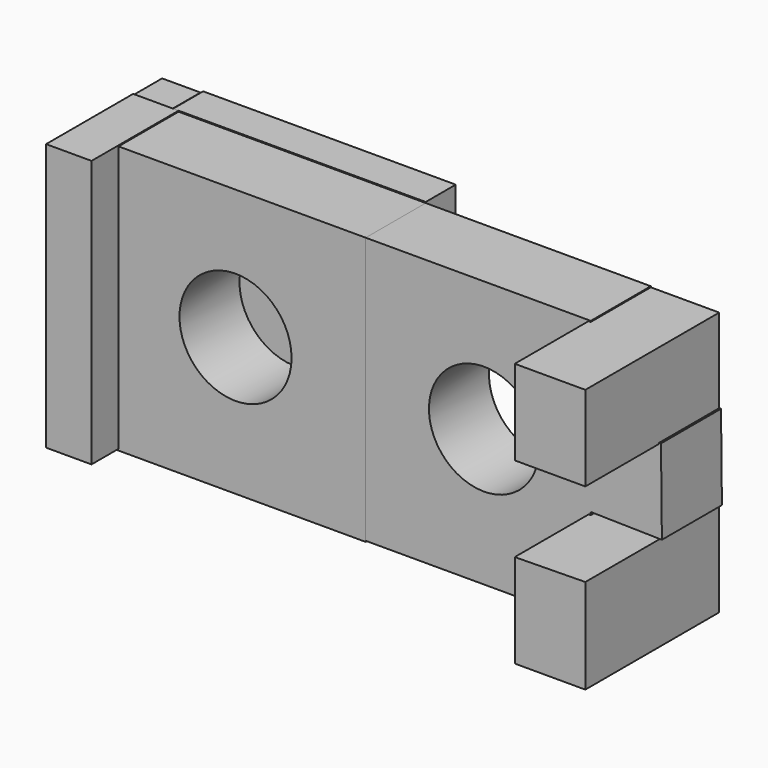
from build123d import *

# Parameters (mm, degrees)
F0_W      = 85.491411
F0_H      = 90.972517
F1_DEPTH  = 12.7
F3_DEPTH  = 25.4
F4_W      = 85.880384
F4_H      = 90.645276
F5_DEPTH  = 25.4
F6_W      = 23.888468
F6_H      = 28.797055
F7_DEPTH  = 56.642
F9_DEPTH  = 12.7
F11_DEPTH = 36.83
F12_R     = 18.622851
F12_R_2   = 18.970339
F13_DEPTH = 96.266


with BuildPart() as f1:
    # F0 (on Front) → F1 (new body)
    with BuildSketch(Plane.XZ):
        with Locations((-42.745705, -1.147197)):
            Rectangle(F0_W, F0_H)
    extrude(amount=-F1_DEPTH)


with BuildPart() as f3:
    # F2 (on Front) → F3 (new body)
    with BuildSketch(Plane.XZ):
        Polygon((76.182395, 44.01182), (0, 44.01182), (0, -46.306219), (75.527914, -46.306219), (76.182395, -12.927811), (100.257024, -13.399864), (99.952981, 15.214765), (76.182395, 15.214765), align=None)
    extrude(amount=F3_DEPTH)

    # F6 (on Front) → F7 (join)
    with BuildSketch(Plane.XZ):
        with Locations((87.392807, 29.286055)):
            Rectangle(F6_W, F6_H)
        Polygon((75.448573, -13.909529), (75.448573, -45.651741), (99.337041, -45.651741), (99.337041, -13.582289), align=None)
    extrude(amount=F7_DEPTH)


with BuildPart() as f5:
    # F4 (on Front) → F5 (new body)
    with BuildSketch(Plane.XZ):
        with Locations((-42.940192, -1.310818)):
            Rectangle(F4_W, F4_H)
    extrude(amount=F5_DEPTH)

    # F8 (on Front) → F9 (join)
    with BuildSketch(Plane.XZ):
        Polygon((-85.635334, -46.633456), (-86.402111, 43.684583), (-99.379383, 43.684583), (-99.379383, -46.306219), align=None)
    extrude(amount=-F9_DEPTH)


with BuildPart() as f11:
    # F10 (on Front) → F11 (new body)
    with BuildSketch(Plane.XZ):
        Polygon((-83.673954, -46.118326), (-83.661675, 44.339061), (-99.041916, 44.339061), (-99.041916, -46.118326), align=None)
    extrude(amount=F11_DEPTH)


with BuildPart() as f13_tool:
    # F12 (on Front) → F13 (new body)
    with BuildSketch(Plane.XZ):
        with Locations((40.034771, 0)):
            Circle(F12_R)
        with Locations((-44.065721, 0)):
            Circle(F12_R_2)
    extrude(amount=F13_DEPTH)


with BuildPart() as f3_1:
    add(f3.part)

    # F13: cut by f13_tool
    add(f13_tool.part, mode=Mode.SUBTRACT)


with BuildPart() as f5_1:
    add(f5.part)

    # F13: cut by f13_tool
    add(f13_tool.part, mode=Mode.SUBTRACT)


solid = Compound([f1.part, f11.part, f3_1.part, f5_1.part])
